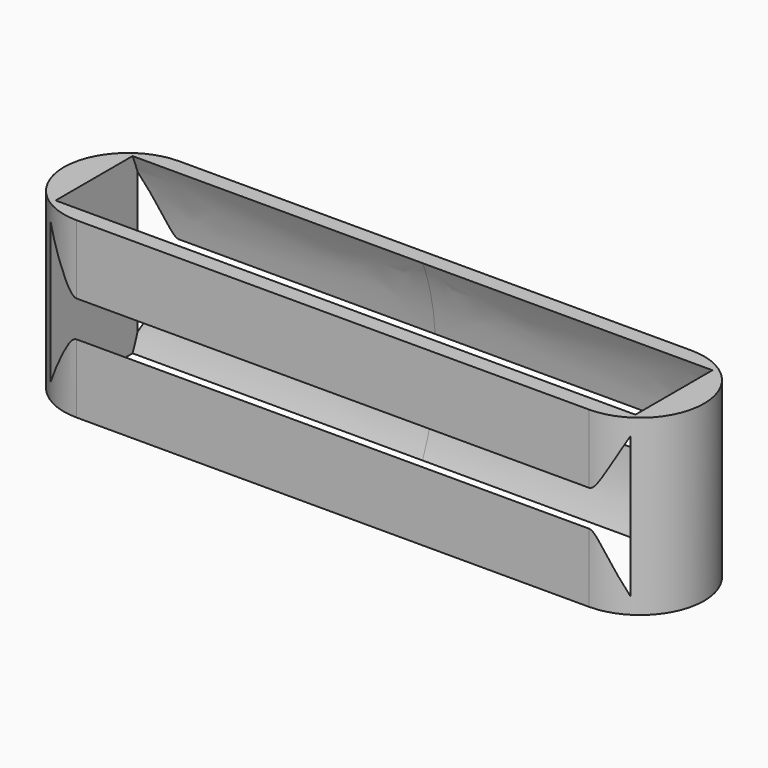
from build123d import *

# Parameters (mm, degrees)
F0_W     = 203.2
F0_H     = 50.8
F1_DEPTH = 34.460809
F3_DEPTH = 100.657105
F5_DEPTH = 115.039952


with BuildPart() as f1:
    # F0 (on Top) → F1 (new body, symmetric)
    with BuildSketch(Plane.XY):
        Rectangle(F0_W, F0_H)
        with BuildLine():
            Line((101.6, 25.4), (101.6, -25.4))
            ThreePointArc((101.6, -25.4), (127, 0), (101.6, 25.4))
        make_face()
        with BuildLine():
            ThreePointArc((-101.6, 25.4), (-127, 0), (-101.6, -25.4))
            Line((-101.6, -25.4), (-101.6, 25.4))
        make_face()
    extrude(amount=F1_DEPTH, both=True)

    # F2 (on Right) → F3 (cut, symmetric)
    with BuildSketch(Plane.YZ):
        Polygon((-7.16202, 12.006879), (7.16202, 12.006879), (33.071622, 75.201049), (-33.071622, 75.201049), align=None)
    extrude(amount=F3_DEPTH, both=True, mode=Mode.SUBTRACT)

    # F4 (on Right) → F5 (cut, symmetric)
    with BuildSketch(Plane.YZ):
        with BuildLine():
            add(Edge.make_bspline(
                [(0, -51.612258), (44.420856, -51.612258), (22.210428, 25.806129), (0, 103.224516), (-22.210428, 25.806129), (-44.420856, -51.612258), (0, -51.612258)],
                knots=[0, 0, 0, 2.094395, 2.094395, 4.18879, 4.18879, 6.283185, 6.283185, 6.283185], degree=2, weights=[1, 0.5, 1, 0.5, 1, 0.5, 1]))
        make_face()
    extrude(amount=F5_DEPTH, both=True, mode=Mode.SUBTRACT)


solid = f1.part
